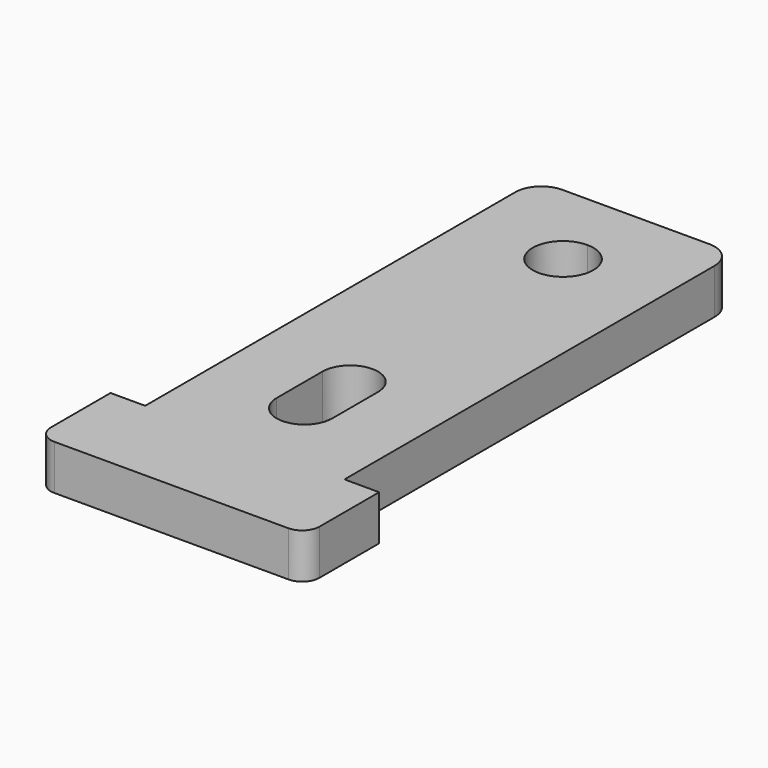
from build123d import *

# Parameters (mm, degrees)
F1_DEPTH = 2.6
F2_R     = 1.5
F3_R     = 1


with BuildPart() as f1:
    # F0 (on Top) → F1 (new body)
    with BuildSketch(Plane.XY):
        with BuildLine():
            ThreePointArc((-6, 28.25), (-6.512563, 29.487437), (-7.75, 30))
            ThreePointArc((-7.75, 30), (-8.987437, 27.012563), (-6, 28.25))
        make_face()
        Polygon((-7.75, 33.5), (-13.5, 33.5), (-13.5, 5.3), (-15.5, 5.3), (-15.5, 0), (0, 0), (0, 5.3), (-2, 5.3), (-2, 33.5), align=None)
        with BuildLine():
            Line((-6.15, 12.9), (-6.15, 9.6))
            ThreePointArc((-6.15, 9.6), (-7.75, 8), (-9.35, 9.6))
            Line((-9.35, 9.6), (-9.35, 12.9))
            ThreePointArc((-9.35, 12.9), (-7.75, 14.5), (-6.15, 12.9))
        make_face(mode=Mode.SUBTRACT)
        with BuildLine():
            ThreePointArc((-6, 28.25), (-8.987437, 27.012563), (-7.75, 30))
            ThreePointArc((-7.75, 30), (-6.512563, 29.487437), (-6, 28.25))
        make_face(mode=Mode.SUBTRACT)
    extrude(amount=F1_DEPTH)

    # F2
    f2_edges = [f1.edges().sort_by_distance(p)[0] for p in [
        (-13.5, 33.5, 1.3),
        (-2, 33.5, 1.3),
    ]]
    fillet(f2_edges, radius=F2_R)

    # F3
    f3_edges = [f1.edges().sort_by_distance(p)[0] for p in [
        (0, 0, 1.3),
        (-15.5, 0, 1.3),
    ]]
    fillet(f3_edges, radius=F3_R)


solid = f1.part
